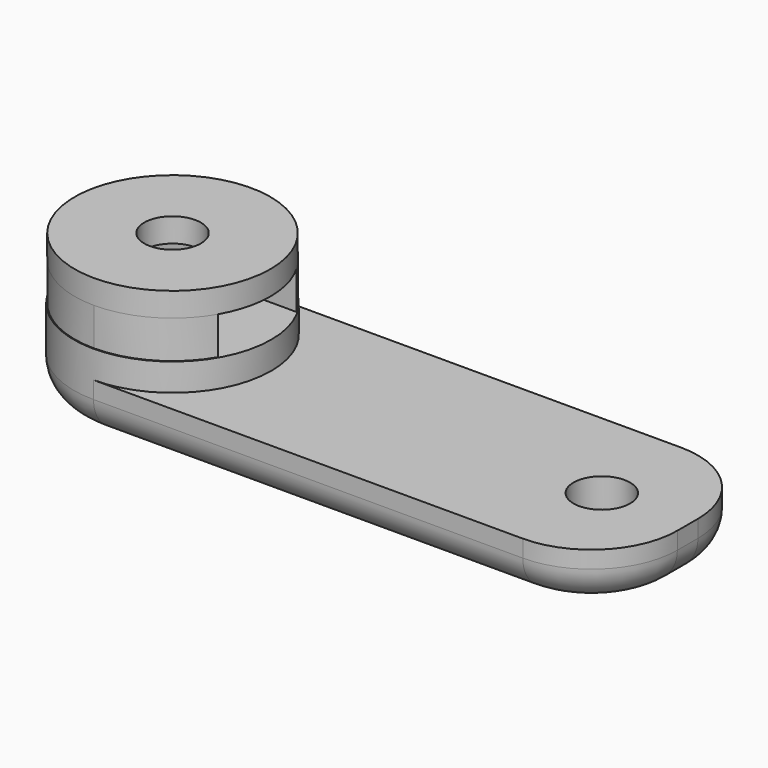
from build123d import *

# Parameters (mm, degrees)
SKETCH121_R      = 5.7
SKETCH121_R_2    = 1.65
PAD123_DEPTH     = 1.4
PAD123_FACE3_R   = 5.7
PAD123_FACE3_R_2 = 1.65
PAD124_DEPTH     = 2.2
SKETCH122_W      = 27.339446
SKETCH122_H      = 5.7
POCKET083_DEPTH  = 2.2
SKETCH123_R      = 5.75
PAD125_DEPTH     = 1.6
PAD126_DEPTH     = 3
FILLET054_R      = 5
FILLET055_R      = 2
SKETCH125_R      = 1.65
POCKET084_DEPTH  = 5


with BuildPart() as part:
    # Sketch121 → Pad123 (new body)
    with BuildSketch(Plane.XY):
        Circle(SKETCH121_R)
        Circle(SKETCH121_R_2, mode=Mode.SUBTRACT)
    extrude(amount=PAD123_DEPTH)

    # Pad123 Face3 → Pad124 (add)
    with BuildSketch(Plane(origin=(0, 0, 0), x_dir=(0, -1, 0), z_dir=(0, 0, -1))):
        Circle(PAD123_FACE3_R)
        Circle(PAD123_FACE3_R_2, mode=Mode.SUBTRACT)
    extrude(amount=PAD124_DEPTH)

    # Sketch122 (on Face1 of Pad124) → Pocket083 (cut)
    with BuildSketch(Plane(origin=(0, 0, -2.2), x_dir=(1, 0, 0), z_dir=(0, 0, -1))):
        Rectangle(SKETCH122_W, SKETCH122_H)
    extrude(amount=-POCKET083_DEPTH, mode=Mode.SUBTRACT)

    # Sketch123 (on Face1 of Pocket083) → Pad125 (join)
    with BuildSketch(Plane(origin=(0, 0, -2.2), x_dir=(1, 0, 0), z_dir=(0, 0, -1))):
        Circle(SKETCH123_R)
    extrude(amount=PAD125_DEPTH)

    # Sketch124 (on Face3 of Pad125) → Pad126 (join)
    with BuildSketch(Plane(origin=(0, 0, -3.8), x_dir=(1, 0, 0), z_dir=(0, 0, -1))):
        with BuildLine():
            ThreePointArc((0, 5.75), (-5.75, 0), (0, -5.75))
            Line((0, -5.75), (30, -5.75))
            Line((30, 5.75), (30, -5.75))
            Line((0, 5.75), (30, 5.75))
        make_face()
    extrude(amount=PAD126_DEPTH)

    # Fillet054
    fillet054_edges = [part.edges().sort_by_distance(p)[0] for p in [
        (30, -5.75, -5.3),
        (30, 5.75, -5.3),
    ]]
    fillet(fillet054_edges, radius=FILLET054_R)

    # Fillet055
    fillet055_edges = [part.edges().sort_by_distance(p)[0] for p in [
        (28.535534, -4.285534, -6.8),
    ]]
    fillet(fillet055_edges, radius=FILLET055_R)

    # Sketch125 (on Face4 of Fillet055) → Pocket084 (cut)
    with BuildSketch(Plane.XY.offset(-3.8)):
        with Locations((25, 0)):
            Circle(SKETCH125_R)
    extrude(amount=-POCKET084_DEPTH, mode=Mode.SUBTRACT)


solid = part.part
